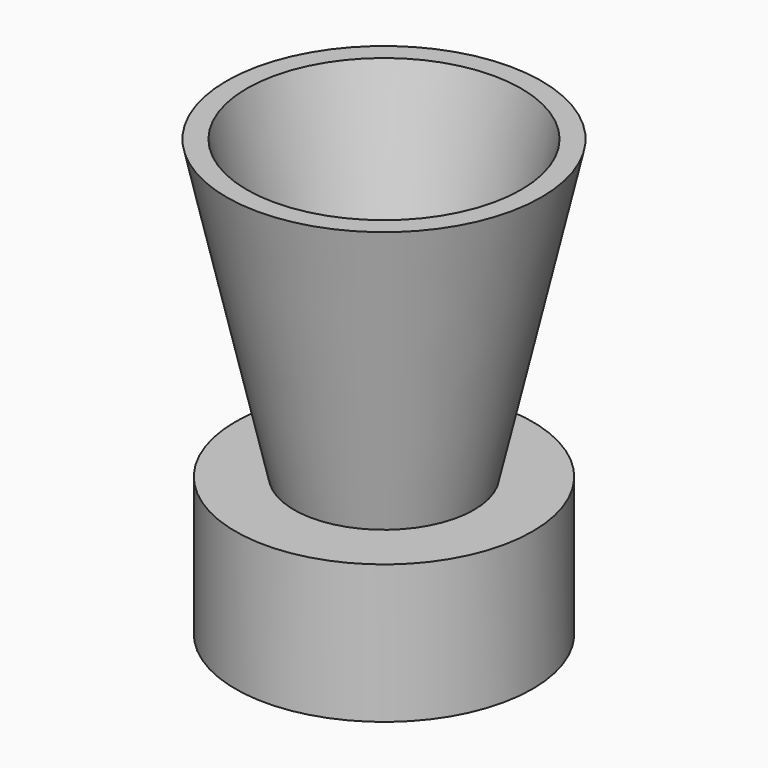
from build123d import *

# Parameters (mm, degrees)
F0_R     = 19.05
F1_DEPTH = 17.78
F4_R     = 11.5415113059
F3_R     = 20.1893668286
F6_T     = -2.54


with BuildPart() as f1:
    # F0 (on Top) → F1 (new body)
    with BuildSketch(Plane.XY):
        Circle(F0_R)
    extrude(amount=F1_DEPTH)

    # F4 (on face) → F5 section 0
    with BuildSketch(Plane.XY.offset(17.78)):
        Circle(F4_R)
    # F3 (on offset) → F5 section 1
    with BuildSketch(Plane.XY.offset(55.88)):
        Circle(F3_R)
    loft()

    # F6
    f6_openings = [f1.faces().sort_by_distance(p)[0] for p in [
        (0, 0, 0),
        (0, 0, 55.88),
    ]]
    offset(amount=F6_T, openings=f6_openings, kind=Kind.INTERSECTION)


solid = f1.part
